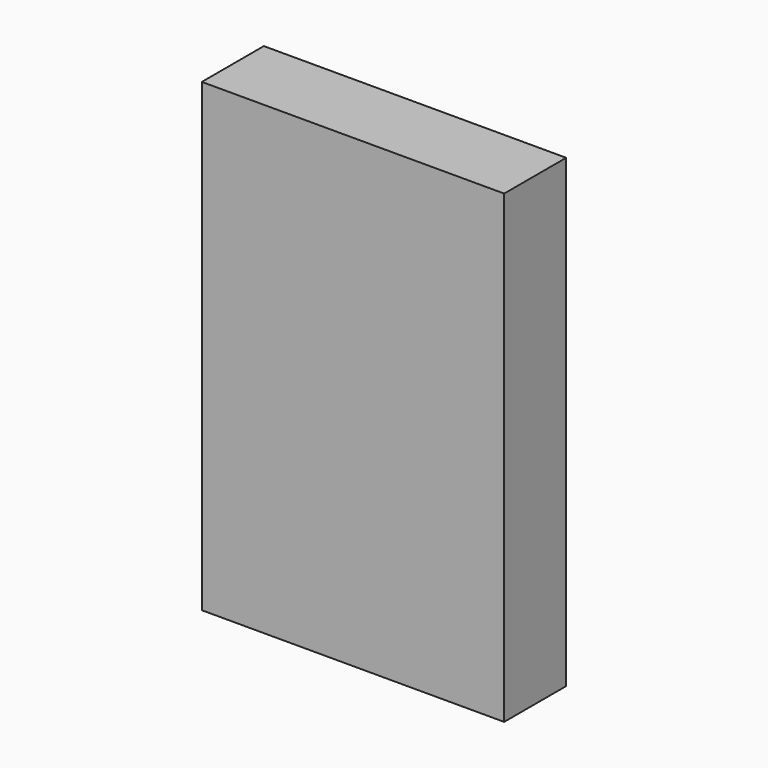
from build123d import *

# Parameters (mm, degrees)
F0_W     = 39
F0_H     = 10
F0_W_2   = 35
F0_H_2   = 6
F1_DEPTH = 60
F2_W     = 10
F2_H     = 2
F3_DEPTH = 39


with BuildPart() as f1:
    # F0 (on Top) → F1 (new body)
    with BuildSketch(Plane.XY):
        Rectangle(F0_W, F0_H)
        Rectangle(F0_W_2, F0_H_2, mode=Mode.SUBTRACT)
    extrude(amount=F1_DEPTH)

    # F2 (on face) → F3 (join, through all)
    with BuildSketch(Plane.YZ.offset(19.5)):
        with Locations((0, 59)):
            Rectangle(F2_W, F2_H)
    extrude(amount=-F3_DEPTH)


solid = f1.part
